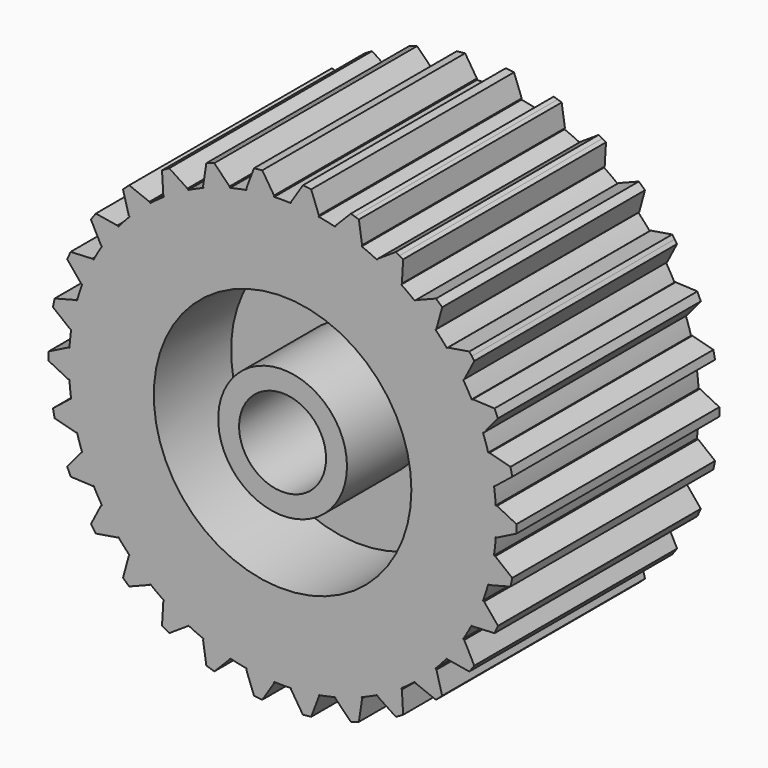
from build123d import *

# Parameters (mm, degrees)
F1_DEPTH = 20
F2_R     = 3.429
F3_DEPTH = 25.4
F4_R     = 10.16
F4_R_2   = 5.08
F5_DEPTH = 7.62


with BuildPart() as f1:
    # F0 (on Front) → F1 (new body)
    with BuildSketch(Plane.XZ):
        with BuildLine():
            ThreePointArc((16.814057, -1.1), (16.841012, -0.550294), (16.85, 0))
            ThreePointArc((16.85, 0), (16.841012, 0.550294), (16.814057, 1.1))
            ThreePointArc((16.814057, 1.1), (16.757694, 1.761305), (16.675332, 2.419877))
            ThreePointArc((16.675332, 2.419877), (16.481787, 3.503312), (16.217926, 4.571801))
            ThreePointArc((16.217926, 4.571801), (16.025302, 5.206936), (15.807815, 5.833993))
            ThreePointArc((15.807815, 5.833993), (15.393241, 6.853512), (14.912995, 7.843793))
            ThreePointArc((14.912995, 7.843793), (14.592528, 8.425), (14.249421, 8.993136))
            ThreePointArc((14.249421, 8.993136), (13.631936, 9.904182), (12.956294, 10.772973))
            ThreePointArc((12.956294, 10.772973), (12.52199, 11.274851), (12.068259, 11.759236))
            ThreePointArc((12.068259, 11.759236), (11.274851, 12.52199), (10.433341, 13.231323))
            ThreePointArc((10.433341, 13.231323), (9.904182, 13.631936), (9.359656, 14.0114))
            ThreePointArc((9.359656, 14.0114), (8.425, 14.592528), (7.4544, 15.1114))
            ThreePointArc((7.4544, 15.1114), (6.853512, 15.393241), (6.241991, 15.651199))
            ThreePointArc((6.241991, 15.651199), (5.206936, 16.025302), (4.149667, 16.331037))
            ThreePointArc((4.149667, 16.331037), (3.503312, 16.481787), (2.851522, 16.606966))
            ThreePointArc((2.851522, 16.606966), (1.761305, 16.757694), (0.663573, 16.836929))
            ThreePointArc((0.663573, 16.836929), (0, 16.85), (-0.663573, 16.836929))
            ThreePointArc((-0.663573, 16.836929), (-1.761305, 16.757694), (-2.851522, 16.606966))
            ThreePointArc((-2.851522, 16.606966), (-3.503312, 16.481787), (-4.149667, 16.331037))
            ThreePointArc((-4.149667, 16.331037), (-5.206936, 16.025302), (-6.241991, 15.651199))
            ThreePointArc((-6.241991, 15.651199), (-6.853512, 15.393241), (-7.4544, 15.1114))
            ThreePointArc((-7.4544, 15.1114), (-8.425, 14.592528), (-9.359656, 14.0114))
            ThreePointArc((-9.359656, 14.0114), (-9.904182, 13.631936), (-10.433341, 13.231323))
            ThreePointArc((-10.433341, 13.231323), (-11.274851, 12.52199), (-12.068259, 11.759236))
            ThreePointArc((-12.068259, 11.759236), (-12.52199, 11.274851), (-12.956294, 10.772973))
            ThreePointArc((-12.956294, 10.772973), (-13.631936, 9.904182), (-14.249421, 8.993136))
            ThreePointArc((-14.249421, 8.993136), (-14.592528, 8.425), (-14.912995, 7.843793))
            ThreePointArc((-14.912995, 7.843793), (-15.393241, 6.853512), (-15.807815, 5.833993))
            ThreePointArc((-15.807815, 5.833993), (-16.025302, 5.206936), (-16.217926, 4.571801))
            ThreePointArc((-16.217926, 4.571801), (-16.481787, 3.503312), (-16.675332, 2.419877))
            ThreePointArc((-16.675332, 2.419877), (-16.757694, 1.761305), (-16.814057, 1.1))
            ThreePointArc((-16.814057, 1.1), (-16.85, 0), (-16.814057, -1.1))
            ThreePointArc((-16.814057, -1.1), (-16.757694, -1.761305), (-16.675332, -2.419877))
            ThreePointArc((-16.675332, -2.419877), (-16.481787, -3.503312), (-16.217926, -4.571801))
            ThreePointArc((-16.217926, -4.571801), (-16.025302, -5.206936), (-15.807815, -5.833993))
            ThreePointArc((-15.807815, -5.833993), (-15.393241, -6.853512), (-14.912995, -7.843793))
            ThreePointArc((-14.912995, -7.843793), (-14.592528, -8.425), (-14.249421, -8.993136))
            ThreePointArc((-14.249421, -8.993136), (-13.631936, -9.904182), (-12.956294, -10.772973))
            ThreePointArc((-12.956294, -10.772973), (-12.52199, -11.274851), (-12.068259, -11.759236))
            ThreePointArc((-12.068259, -11.759236), (-11.274851, -12.52199), (-10.433341, -13.231323))
            ThreePointArc((-10.433341, -13.231323), (-9.904182, -13.631936), (-9.359656, -14.0114))
            ThreePointArc((-9.359656, -14.0114), (-8.425, -14.592528), (-7.4544, -15.1114))
            ThreePointArc((-7.4544, -15.1114), (-6.853512, -15.393241), (-6.241991, -15.651199))
            ThreePointArc((-6.241991, -15.651199), (-5.206936, -16.025302), (-4.149667, -16.331037))
            ThreePointArc((-4.149667, -16.331037), (-3.503312, -16.481787), (-2.851522, -16.606966))
            ThreePointArc((-2.851522, -16.606966), (-1.761305, -16.757694), (-0.663573, -16.836929))
            ThreePointArc((-0.663573, -16.836929), (0, -16.85), (0.663573, -16.836929))
            ThreePointArc((0.663573, -16.836929), (1.761305, -16.757694), (2.851522, -16.606966))
            ThreePointArc((2.851522, -16.606966), (3.503312, -16.481787), (4.149667, -16.331037))
            ThreePointArc((4.149667, -16.331037), (5.206936, -16.025302), (6.241991, -15.651199))
            ThreePointArc((6.241991, -15.651199), (6.853512, -15.393241), (7.4544, -15.1114))
            ThreePointArc((7.4544, -15.1114), (8.425, -14.592528), (9.359656, -14.0114))
            ThreePointArc((9.359656, -14.0114), (9.904182, -13.631936), (10.433341, -13.231323))
            ThreePointArc((10.433341, -13.231323), (11.274851, -12.52199), (12.068259, -11.759236))
            ThreePointArc((12.068259, -11.759236), (12.52199, -11.274851), (12.956294, -10.772973))
            ThreePointArc((12.956294, -10.772973), (13.631936, -9.904182), (14.249421, -8.993136))
            ThreePointArc((14.249421, -8.993136), (14.592528, -8.425), (14.912995, -7.843793))
            ThreePointArc((14.912995, -7.843793), (15.393241, -6.853512), (15.807815, -5.833993))
            ThreePointArc((15.807815, -5.833993), (16.025302, -5.206936), (16.217926, -4.571801))
            ThreePointArc((16.217926, -4.571801), (16.481787, -3.503312), (16.675332, -2.419877))
            ThreePointArc((16.675332, -2.419877), (16.757694, -1.761305), (16.814057, -1.1))
        make_face()
        with BuildLine():
            ThreePointArc((16.814057, 1.1), (16.841012, 0.550294), (16.85, 0))
            ThreePointArc((16.85, 0), (16.841012, -0.550294), (16.814057, -1.1))
            Line((16.814057, -1.1), (16.914057, -1.1))
            Line((16.914057, -1.1), (18.45, -0.329923))
            Line((18.45, -0.329923), (18.45, 0))
            Line((18.45, 0), (18.45, 0.329923))
            Line((18.45, 0.329923), (16.914057, 1.1))
            Line((16.914057, 1.1), (16.814057, 1.1))
        make_face()
        with BuildLine():
            ThreePointArc((16.217926, 4.571801), (16.481787, 3.503312), (16.675332, 2.419877))
            Line((16.675332, 2.419877), (16.773147, 2.440668))
            Line((16.773147, 2.440668), (18.115418, 3.513257))
            Line((18.115418, 3.513257), (18.046823, 3.835971))
            Line((18.046823, 3.835971), (17.978228, 4.158685))
            Line((17.978228, 4.158685), (16.315741, 4.592592))
            Line((16.315741, 4.592592), (16.217926, 4.571801))
        make_face()
        with BuildLine():
            Line((16.773147, -2.440668), (16.675332, -2.419877))
            ThreePointArc((16.675332, -2.419877), (16.481787, -3.503312), (16.217926, -4.571801))
            Line((16.217926, -4.571801), (16.315741, -4.592592))
            Line((16.315741, -4.592592), (17.978228, -4.158685))
            Line((17.978228, -4.158685), (18.046823, -3.835971))
            Line((18.046823, -3.835971), (18.115418, -3.513257))
            Line((18.115418, -3.513257), (16.773147, -2.440668))
        make_face()
        with BuildLine():
            ThreePointArc((14.912995, 7.843793), (15.393241, 6.853512), (15.807815, 5.833993))
            Line((15.807815, 5.833993), (15.89917, 5.874667))
            Line((15.89917, 5.874667), (16.989106, 7.202891))
            Line((16.989106, 7.202891), (16.854914, 7.504291))
            Line((16.854914, 7.504291), (16.720722, 7.805691))
            Line((16.720722, 7.805691), (15.004349, 7.884467))
            Line((15.004349, 7.884467), (14.912995, 7.843793))
        make_face()
        with BuildLine():
            Line((15.89917, -5.874667), (15.807815, -5.833993))
            ThreePointArc((15.807815, -5.833993), (15.393241, -6.853512), (14.912995, -7.843793))
            Line((14.912995, -7.843793), (15.004349, -7.884467))
            Line((15.004349, -7.884467), (16.720722, -7.805691))
            Line((16.720722, -7.805691), (16.854914, -7.504291))
            Line((16.854914, -7.504291), (16.989106, -7.202891))
            Line((16.989106, -7.202891), (15.89917, -5.874667))
        make_face()
        with BuildLine():
            ThreePointArc((12.956294, 10.772973), (13.631936, 9.904182), (14.249421, 8.993136))
            Line((14.249421, 8.993136), (14.330323, 9.051914))
            Line((14.330323, 9.051914), (15.120288, 10.577724))
            Line((15.120288, 10.577724), (14.926364, 10.844638))
            Line((14.926364, 10.844638), (14.732439, 11.111552))
            Line((14.732439, 11.111552), (13.037195, 10.831752))
            Line((13.037195, 10.831752), (12.956294, 10.772973))
        make_face()
        with BuildLine():
            Line((14.330323, -9.051914), (14.249421, -8.993136))
            ThreePointArc((14.249421, -8.993136), (13.631936, -9.904182), (12.956294, -10.772973))
            Line((12.956294, -10.772973), (13.037195, -10.831752))
            Line((13.037195, -10.831752), (14.732439, -11.111552))
            Line((14.732439, -11.111552), (14.926364, -10.844638))
            Line((14.926364, -10.844638), (15.120288, -10.577724))
            Line((15.120288, -10.577724), (14.330323, -9.051914))
        make_face()
        with BuildLine():
            ThreePointArc((10.433341, 13.231323), (11.274851, 12.52199), (12.068259, 11.759236))
            Line((12.068259, 11.759236), (12.135172, 11.83355))
            Line((12.135172, 11.83355), (12.590641, 13.49026))
            Line((12.590641, 13.49026), (12.34546, 13.711022))
            Line((12.34546, 13.711022), (12.100279, 13.931784))
            Line((12.100279, 13.931784), (10.500254, 13.305637))
            Line((10.500254, 13.305637), (10.433341, 13.231323))
        make_face()
        with BuildLine():
            Line((12.135172, -11.83355), (12.068259, -11.759236))
            ThreePointArc((12.068259, -11.759236), (11.274851, -12.52199), (10.433341, -13.231323))
            Line((10.433341, -13.231323), (10.500254, -13.305637))
            Line((10.500254, -13.305637), (12.100279, -13.931784))
            Line((12.100279, -13.931784), (12.34546, -13.711022))
            Line((12.34546, -13.711022), (12.590641, -13.49026))
            Line((12.590641, -13.49026), (12.135172, -11.83355))
        make_face()
        with BuildLine():
            ThreePointArc((7.4544, 15.1114), (8.425, 14.592528), (9.359656, 14.0114))
            Line((9.359656, 14.0114), (9.409656, 14.098003))
            Line((9.409656, 14.098003), (9.510722, 15.813207))
            Line((9.510722, 15.813207), (9.225, 15.978169))
            Line((9.225, 15.978169), (8.939278, 16.14313))
            Line((8.939278, 16.14313), (7.5044, 15.198003))
            Line((7.5044, 15.198003), (7.4544, 15.1114))
        make_face()
        with BuildLine():
            Line((9.409656, -14.098003), (9.359656, -14.0114))
            ThreePointArc((9.359656, -14.0114), (8.425, -14.592528), (7.4544, -15.1114))
            Line((7.4544, -15.1114), (7.5044, -15.198003))
            Line((7.5044, -15.198003), (8.939278, -16.14313))
            Line((8.939278, -16.14313), (9.225, -15.978169))
            Line((9.225, -15.978169), (9.510722, -15.813207))
            Line((9.510722, -15.813207), (9.409656, -14.098003))
        make_face()
        with BuildLine():
            ThreePointArc((4.149667, 16.331037), (5.206936, 16.025302), (6.241991, 15.651199))
            Line((6.241991, 15.651199), (6.272893, 15.746305))
            Line((6.272893, 15.746305), (6.015139, 17.445041))
            Line((6.015139, 17.445041), (5.701364, 17.546993))
            Line((5.701364, 17.546993), (5.387588, 17.648945))
            Line((5.387588, 17.648945), (4.180569, 16.426142))
            Line((4.180569, 16.426142), (4.149667, 16.331037))
        make_face()
        with BuildLine():
            Line((6.272893, -15.746305), (6.241991, -15.651199))
            ThreePointArc((6.241991, -15.651199), (5.206936, -16.025302), (4.149667, -16.331037))
            Line((4.149667, -16.331037), (4.180569, -16.426142))
            Line((4.180569, -16.426142), (5.387588, -17.648945))
            Line((5.387588, -17.648945), (5.701364, -17.546993))
            Line((5.701364, -17.546993), (6.015139, -17.445041))
            Line((6.015139, -17.445041), (6.272893, -15.746305))
        make_face()
        with BuildLine():
            ThreePointArc((0.663573, 16.836929), (1.761305, 16.757694), (2.851522, 16.606966))
            Line((2.851522, 16.606966), (2.861974, 16.706418))
            Line((2.861974, 16.706418), (2.256666, 18.314443))
            Line((2.256666, 18.314443), (1.92855, 18.348929))
            Line((1.92855, 18.348929), (1.600434, 18.383415))
            Line((1.600434, 18.383415), (0.674026, 16.936381))
            Line((0.674026, 16.936381), (0.663573, 16.836929))
        make_face()
        with BuildLine():
            Line((2.861974, -16.706418), (2.851522, -16.606966))
            ThreePointArc((2.851522, -16.606966), (1.761305, -16.757694), (0.663573, -16.836929))
            Line((0.663573, -16.836929), (0.674026, -16.936381))
            Line((0.674026, -16.936381), (1.600434, -18.383415))
            Line((1.600434, -18.383415), (1.92855, -18.348929))
            Line((1.92855, -18.348929), (2.256666, -18.314443))
            Line((2.256666, -18.314443), (2.861974, -16.706418))
        make_face()
        with BuildLine():
            ThreePointArc((-2.851522, 16.606966), (-1.761305, 16.757694), (-0.663573, 16.836929))
            Line((-0.663573, 16.836929), (-0.674026, 16.936381))
            Line((-0.674026, 16.936381), (-1.600434, 18.383415))
            Line((-1.600434, 18.383415), (-1.92855, 18.348929))
            Line((-1.92855, 18.348929), (-2.256666, 18.314443))
            Line((-2.256666, 18.314443), (-2.861974, 16.706418))
            Line((-2.861974, 16.706418), (-2.851522, 16.606966))
        make_face()
        with BuildLine():
            Line((-0.674026, -16.936381), (-0.663573, -16.836929))
            ThreePointArc((-0.663573, -16.836929), (-1.761305, -16.757694), (-2.851522, -16.606966))
            Line((-2.851522, -16.606966), (-2.861974, -16.706418))
            Line((-2.861974, -16.706418), (-2.256666, -18.314443))
            Line((-2.256666, -18.314443), (-1.92855, -18.348929))
            Line((-1.92855, -18.348929), (-1.600434, -18.383415))
            Line((-1.600434, -18.383415), (-0.674026, -16.936381))
        make_face()
        with BuildLine():
            ThreePointArc((-6.241991, 15.651199), (-5.206936, 16.025302), (-4.149667, 16.331037))
            Line((-4.149667, 16.331037), (-4.180569, 16.426142))
            Line((-4.180569, 16.426142), (-5.387588, 17.648945))
            Line((-5.387588, 17.648945), (-5.701364, 17.546993))
            Line((-5.701364, 17.546993), (-6.015139, 17.445041))
            Line((-6.015139, 17.445041), (-6.272893, 15.746305))
            Line((-6.272893, 15.746305), (-6.241991, 15.651199))
        make_face()
        with BuildLine():
            Line((-4.180569, -16.426142), (-4.149667, -16.331037))
            ThreePointArc((-4.149667, -16.331037), (-5.206936, -16.025302), (-6.241991, -15.651199))
            Line((-6.241991, -15.651199), (-6.272893, -15.746305))
            Line((-6.272893, -15.746305), (-6.015139, -17.445041))
            Line((-6.015139, -17.445041), (-5.701364, -17.546993))
            Line((-5.701364, -17.546993), (-5.387588, -17.648945))
            Line((-5.387588, -17.648945), (-4.180569, -16.426142))
        make_face()
        with BuildLine():
            ThreePointArc((-9.359656, 14.0114), (-8.425, 14.592528), (-7.4544, 15.1114))
            Line((-7.4544, 15.1114), (-7.5044, 15.198003))
            Line((-7.5044, 15.198003), (-8.939278, 16.14313))
            Line((-8.939278, 16.14313), (-9.225, 15.978169))
            Line((-9.225, 15.978169), (-9.510722, 15.813207))
            Line((-9.510722, 15.813207), (-9.409656, 14.098003))
            Line((-9.409656, 14.098003), (-9.359656, 14.0114))
        make_face()
        with BuildLine():
            Line((-7.5044, -15.198003), (-7.4544, -15.1114))
            ThreePointArc((-7.4544, -15.1114), (-8.425, -14.592528), (-9.359656, -14.0114))
            Line((-9.359656, -14.0114), (-9.409656, -14.098003))
            Line((-9.409656, -14.098003), (-9.510722, -15.813207))
            Line((-9.510722, -15.813207), (-9.225, -15.978169))
            Line((-9.225, -15.978169), (-8.939278, -16.14313))
            Line((-8.939278, -16.14313), (-7.5044, -15.198003))
        make_face()
        with BuildLine():
            ThreePointArc((-12.068259, 11.759236), (-11.274851, 12.52199), (-10.433341, 13.231323))
            Line((-10.433341, 13.231323), (-10.500254, 13.305637))
            Line((-10.500254, 13.305637), (-12.100279, 13.931784))
            Line((-12.100279, 13.931784), (-12.34546, 13.711022))
            Line((-12.34546, 13.711022), (-12.590641, 13.49026))
            Line((-12.590641, 13.49026), (-12.135172, 11.83355))
            Line((-12.135172, 11.83355), (-12.068259, 11.759236))
        make_face()
        with BuildLine():
            Line((-10.500254, -13.305637), (-10.433341, -13.231323))
            ThreePointArc((-10.433341, -13.231323), (-11.274851, -12.52199), (-12.068259, -11.759236))
            Line((-12.068259, -11.759236), (-12.135172, -11.83355))
            Line((-12.135172, -11.83355), (-12.590641, -13.49026))
            Line((-12.590641, -13.49026), (-12.34546, -13.711022))
            Line((-12.34546, -13.711022), (-12.100279, -13.931784))
            Line((-12.100279, -13.931784), (-10.500254, -13.305637))
        make_face()
        with BuildLine():
            ThreePointArc((-14.249421, 8.993136), (-13.631936, 9.904182), (-12.956294, 10.772973))
            Line((-12.956294, 10.772973), (-13.037195, 10.831752))
            Line((-13.037195, 10.831752), (-14.732439, 11.111552))
            Line((-14.732439, 11.111552), (-14.926364, 10.844638))
            Line((-14.926364, 10.844638), (-15.120288, 10.577724))
            Line((-15.120288, 10.577724), (-14.330323, 9.051914))
            Line((-14.330323, 9.051914), (-14.249421, 8.993136))
        make_face()
        with BuildLine():
            Line((-13.037195, -10.831752), (-12.956294, -10.772973))
            ThreePointArc((-12.956294, -10.772973), (-13.631936, -9.904182), (-14.249421, -8.993136))
            Line((-14.249421, -8.993136), (-14.330323, -9.051914))
            Line((-14.330323, -9.051914), (-15.120288, -10.577724))
            Line((-15.120288, -10.577724), (-14.926364, -10.844638))
            Line((-14.926364, -10.844638), (-14.732439, -11.111552))
            Line((-14.732439, -11.111552), (-13.037195, -10.831752))
        make_face()
        with BuildLine():
            ThreePointArc((-15.807815, 5.833993), (-15.393241, 6.853512), (-14.912995, 7.843793))
            Line((-14.912995, 7.843793), (-15.004349, 7.884467))
            Line((-15.004349, 7.884467), (-16.720722, 7.805691))
            Line((-16.720722, 7.805691), (-16.854914, 7.504291))
            Line((-16.854914, 7.504291), (-16.989106, 7.202891))
            Line((-16.989106, 7.202891), (-15.89917, 5.874667))
            Line((-15.89917, 5.874667), (-15.807815, 5.833993))
        make_face()
        with BuildLine():
            Line((-15.004349, -7.884467), (-14.912995, -7.843793))
            ThreePointArc((-14.912995, -7.843793), (-15.393241, -6.853512), (-15.807815, -5.833993))
            Line((-15.807815, -5.833993), (-15.89917, -5.874667))
            Line((-15.89917, -5.874667), (-16.989106, -7.202891))
            Line((-16.989106, -7.202891), (-16.854914, -7.504291))
            Line((-16.854914, -7.504291), (-16.720722, -7.805691))
            Line((-16.720722, -7.805691), (-15.004349, -7.884467))
        make_face()
        with BuildLine():
            ThreePointArc((-16.675332, 2.419877), (-16.481787, 3.503312), (-16.217926, 4.571801))
            Line((-16.217926, 4.571801), (-16.315741, 4.592592))
            Line((-16.315741, 4.592592), (-17.978228, 4.158685))
            Line((-17.978228, 4.158685), (-18.046823, 3.835971))
            Line((-18.046823, 3.835971), (-18.115418, 3.513257))
            Line((-18.115418, 3.513257), (-16.773147, 2.440668))
            Line((-16.773147, 2.440668), (-16.675332, 2.419877))
        make_face()
        with BuildLine():
            Line((-16.315741, -4.592592), (-16.217926, -4.571801))
            ThreePointArc((-16.217926, -4.571801), (-16.481787, -3.503312), (-16.675332, -2.419877))
            Line((-16.675332, -2.419877), (-16.773147, -2.440668))
            Line((-16.773147, -2.440668), (-18.115418, -3.513257))
            Line((-18.115418, -3.513257), (-18.046823, -3.835971))
            Line((-18.046823, -3.835971), (-17.978228, -4.158685))
            Line((-17.978228, -4.158685), (-16.315741, -4.592592))
        make_face()
        with BuildLine():
            ThreePointArc((-16.814057, -1.1), (-16.85, 0), (-16.814057, 1.1))
            Line((-16.814057, 1.1), (-16.914057, 1.1))
            Line((-16.914057, 1.1), (-18.45, 0.329923))
            Line((-18.45, 0.329923), (-18.45, 0))
            Line((-18.45, 0), (-18.45, -0.329923))
            Line((-18.45, -0.329923), (-16.914057, -1.1))
            Line((-16.914057, -1.1), (-16.814057, -1.1))
        make_face()
    extrude(amount=F1_DEPTH)

    # F2 (on face) → F3 (cut)
    with BuildSketch(Plane.XZ.offset(20)):
        Circle(F2_R)
    extrude(amount=-F3_DEPTH, mode=Mode.SUBTRACT)

    # F4 (on face) → F5 (cut)
    with BuildSketch(Plane.XZ.offset(20)):
        Circle(F4_R)
        Circle(F4_R_2, mode=Mode.SUBTRACT)
    extrude(amount=-F5_DEPTH, mode=Mode.SUBTRACT)


solid = f1.part
